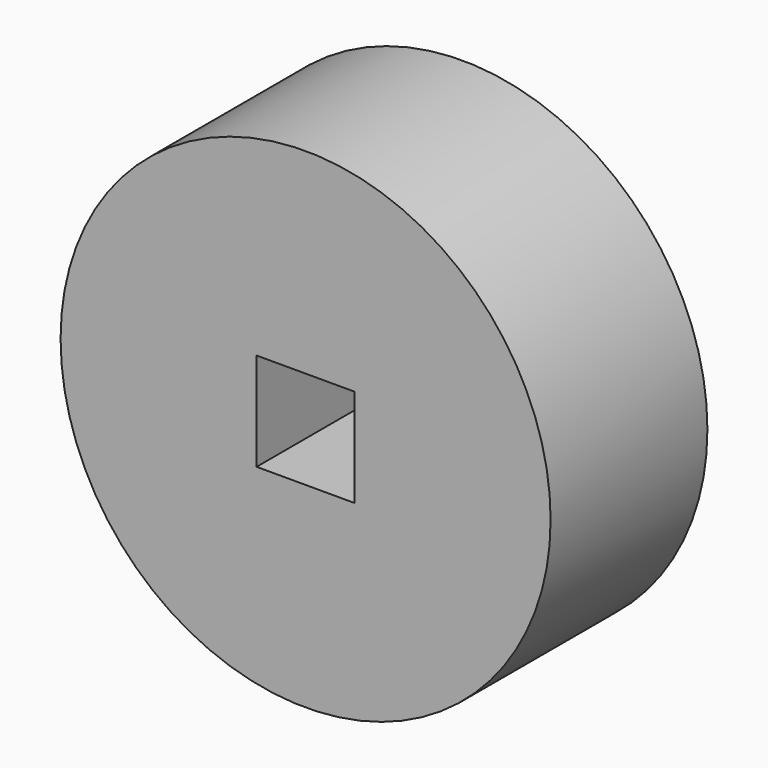
from build123d import *

# Parameters (mm, degrees)
F0_R     = 63.5
F0_W     = 25.4
F0_H     = 25.4
F1_DEPTH = 50.8


with BuildPart() as f1:
    # F0 (on Front) → F1 (new body)
    with BuildSketch(Plane.XZ):
        Circle(F0_R)
        Rectangle(F0_W, F0_H, mode=Mode.SUBTRACT)
    extrude(amount=F1_DEPTH)


solid = f1.part
